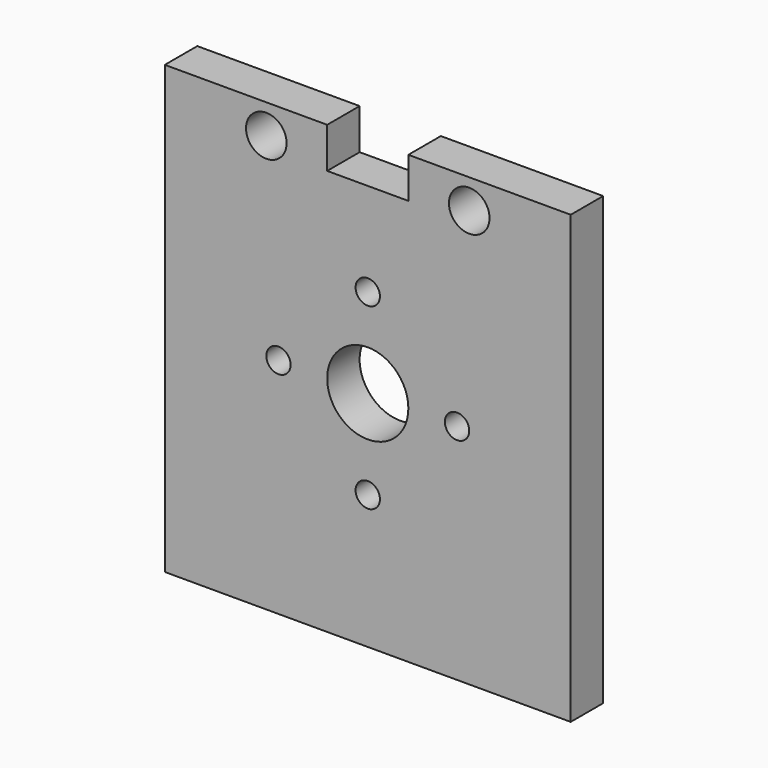
from build123d import *

# Parameters (mm, degrees)
F0_R     = 1.5
F0_R_2   = 2.5
F0_R_3   = 5
F1_DEPTH = 5


with BuildPart() as f1:
    # F0 (on Front) → F1 (new body)
    with BuildSketch(Plane.XZ):
        Polygon((25, -27.5), (25, 27.5), (5, 27.5), (5, 22.5), (-5, 22.5), (-5, 27.5), (-25, 27.5), (-25, -27.5), (-17.784204334, -27.5), (-7.784204334, -27.5), align=None)
        with Locations((0, -11)):
            Circle(F0_R, mode=Mode.SUBTRACT)
        with Locations((-11, 0)):
            Circle(F0_R, mode=Mode.SUBTRACT)
        with Locations((-12.5, 23.8740361482)):
            Circle(F0_R_2, mode=Mode.SUBTRACT)
        Circle(F0_R_3, mode=Mode.SUBTRACT)
        with Locations((11, 0)):
            Circle(F0_R, mode=Mode.SUBTRACT)
        with Locations((0, 11)):
            Circle(F0_R, mode=Mode.SUBTRACT)
        with Locations((12.5, 23.8740361482)):
            Circle(F0_R_2, mode=Mode.SUBTRACT)
    extrude(amount=F1_DEPTH)


solid = f1.part
